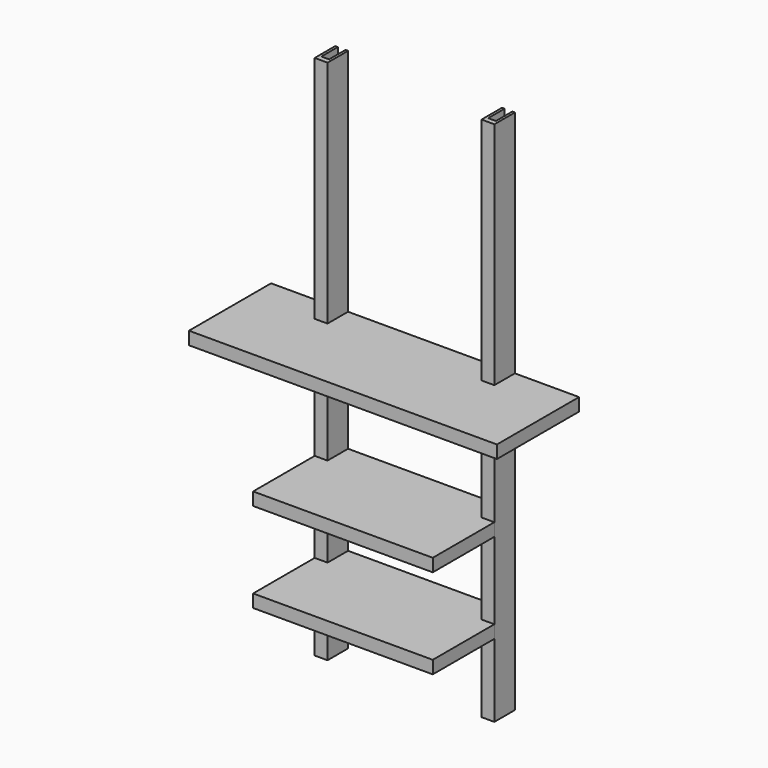
from build123d import *

# Parameters (mm, degrees)
F1_W      = 50
F1_H      = 100
F2_DEPTH  = 2050
F3_W      = 30
F3_H      = 80
F4_DEPTH  = 2050
F7_W      = 1200
F7_H      = 400
F8_DEPTH  = 50
F9_W      = 50
F9_H      = 100
F10_DEPTH = 50
F12_W     = 700
F12_H     = 400
F13_DEPTH = 50
F14_W     = 50
F14_H     = 100
F15_DEPTH = 50


with BuildPart() as f2:
    # F1 (on offset) → F2 (new body)
    with BuildSketch(Plane.XY.offset(155)):
        with Locations((-325, -50)):
            Rectangle(F1_W, F1_H)
    extrude(amount=F2_DEPTH)

    # F3 (on face) → F4 (cut, through all)
    with BuildSketch(Plane.XY.offset(2205)):
        with Locations((-325, -40)):
            Rectangle(F3_W, F3_H)
    extrude(amount=-F4_DEPTH, mode=Mode.SUBTRACT)


with BuildPart() as f5_1:
    # F5: instance of F2
    add(f2.part.mirror(Plane.YZ))


with BuildPart() as f8:
    # F7 (on offset) → F8 (new body)
    with BuildSketch(Plane.XY.offset(1260)):
        with Locations((0, -200)):
            Rectangle(F7_W, F7_H)
    extrude(amount=F8_DEPTH)

    # F9 (on face) → F10 (cut, through all)
    with BuildSketch(Plane.XY.offset(1310)):
        with Locations((-325, -50)):
            Rectangle(F9_W, F9_H)
        with Locations((325, -50)):
            Rectangle(F9_W, F9_H)
    extrude(amount=-F10_DEPTH, mode=Mode.SUBTRACT)


with BuildPart() as f13:
    # F12 (on offset) → F13 (new body)
    with BuildSketch(Plane.XY.offset(790)):
        with Locations((0, -200)):
            Rectangle(F12_W, F12_H)
    extrude(amount=F13_DEPTH)

    # F14 (on face) → F15 (cut, through all)
    with BuildSketch(Plane.XY.offset(840)):
        with Locations((-325, -50)):
            Rectangle(F14_W, F14_H)
        with Locations((325, -50)):
            Rectangle(F14_W, F14_H)
    extrude(amount=-F15_DEPTH, mode=Mode.SUBTRACT)


with BuildPart() as f16_1:
    # F16: copy of F13
    add(f13.part.moved(Location((0, 0, -350))))


solid = Compound([f2.part, f5_1.part, f8.part, f13.part, f16_1.part])
